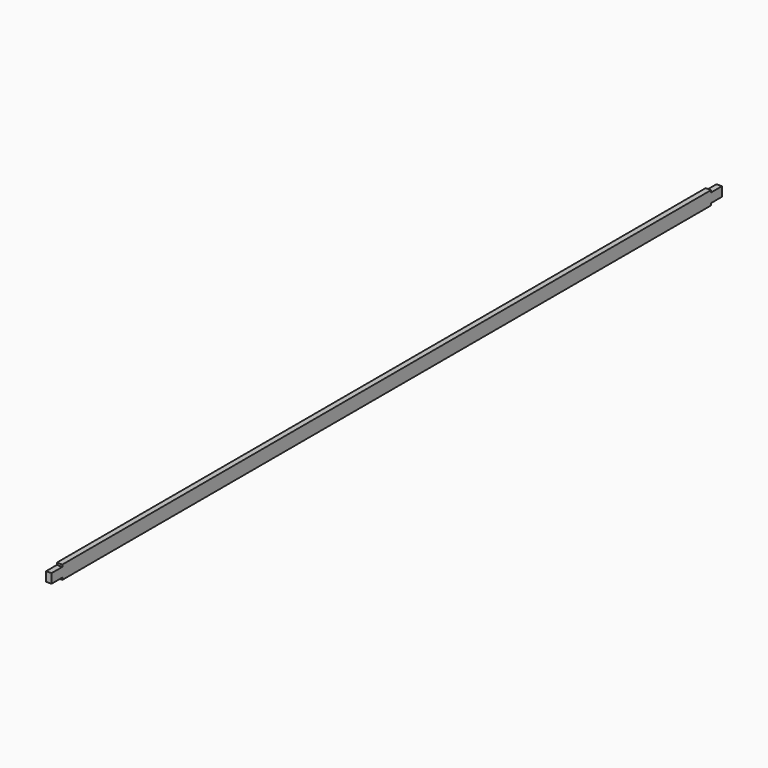
from build123d import *

# Parameters (mm, degrees)
F0_W     = 10
F0_H     = 50
F1_DEPTH = 3000
F2_W     = 20
F2_H     = 34.641016
F3_DEPTH = 50
F4_W     = 20
F4_H     = 34.641016
F5_DEPTH = 50


with BuildPart() as f1:
    # F0 (on Front) → F1 (new body)
    with BuildSketch(Plane.XZ):
        with Locations((5, 25)):
            Rectangle(F0_W, F0_H)
        with Locations((15, 25)):
            Rectangle(F0_W, F0_H)
    extrude(amount=F1_DEPTH)

    # F2 (on face) → F3 (join)
    with BuildSketch(Plane.XZ.offset(3000)):
        with Locations((10, 25)):
            Rectangle(F2_W, F2_H)
    extrude(amount=F3_DEPTH)

    # F4 (on face) → F5 (join)
    with BuildSketch(Plane(origin=(0, 0, 0), x_dir=(-1, 0, 0), z_dir=(0, 1, 0))):
        with Locations((-10, 25)):
            Rectangle(F4_W, F4_H)
    extrude(amount=F5_DEPTH)


solid = f1.part
